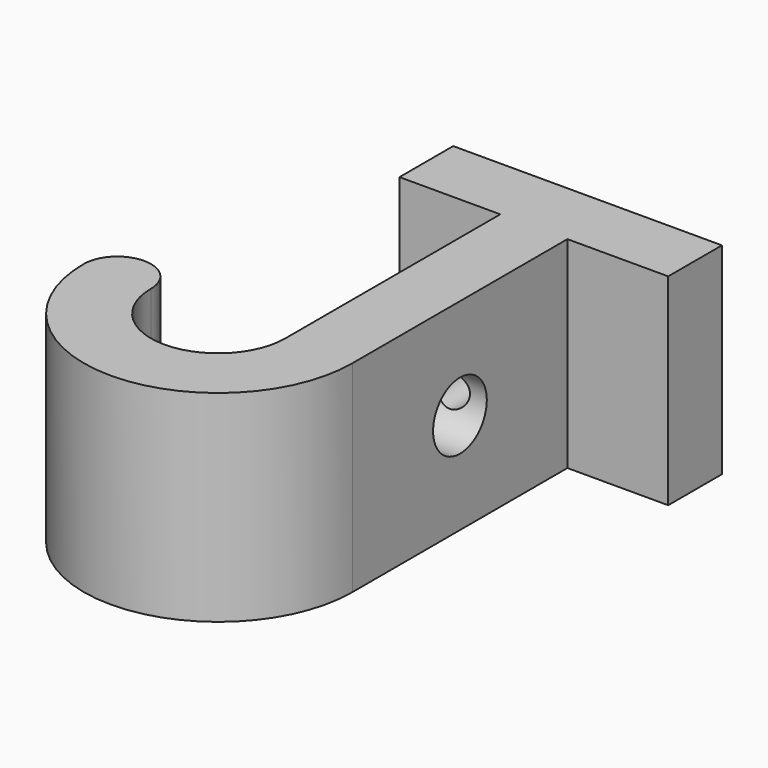
from build123d import *

# Parameters (mm, degrees)
F1_DEPTH = 38.1
F2_R     = 6.35
F3_DEPTH = 50.801
F4_R     = 3.175
F5_DEPTH = 50.8


with BuildPart() as f1:
    # F0 (on Top) → F1 (new body)
    with BuildSketch(Plane.XY):
        Polygon((0, 50.8), (0, 0), (12.7, 0), (12.7, 50.8), (6.35, 50.8), align=None)
        with BuildLine():
            Line((12.7, 0), (0, 0))
            ThreePointArc((0, 0), (-12.7, -12.7), (-25.4, 0))
            ThreePointArc((-25.4, 0), (-31.75, 6.35), (-38.1, 0))
            ThreePointArc((-38.1, 0), (-12.7, -25.4), (12.7, 0))
        make_face()
        Polygon((-19.05, 50.8), (0, 50.8), (6.35, 50.8), (6.35, 63.5), (-19.05, 63.5), align=None)
        Polygon((6.35, 50.8), (12.7, 50.8), (31.75, 50.8), (31.75, 63.5), (6.35, 63.5), align=None)
    extrude(amount=F1_DEPTH)

    # F2 (on face) → F3 (cut, through all)
    with BuildSketch(Plane.YZ.offset(12.7)):
        with Locations((25.4, 19.05)):
            Circle(F2_R)
    extrude(amount=-F3_DEPTH, mode=Mode.SUBTRACT)

    # F4 (on face) → F5 (cut)
    with BuildSketch(Plane(origin=(0, 63.5, 0), x_dir=(-1, 0, 0), z_dir=(0, 1, 0))):
        with Locations((-6.35, 19.05)):
            Circle(F4_R)
    extrude(amount=-F5_DEPTH, mode=Mode.SUBTRACT)


solid = f1.part
